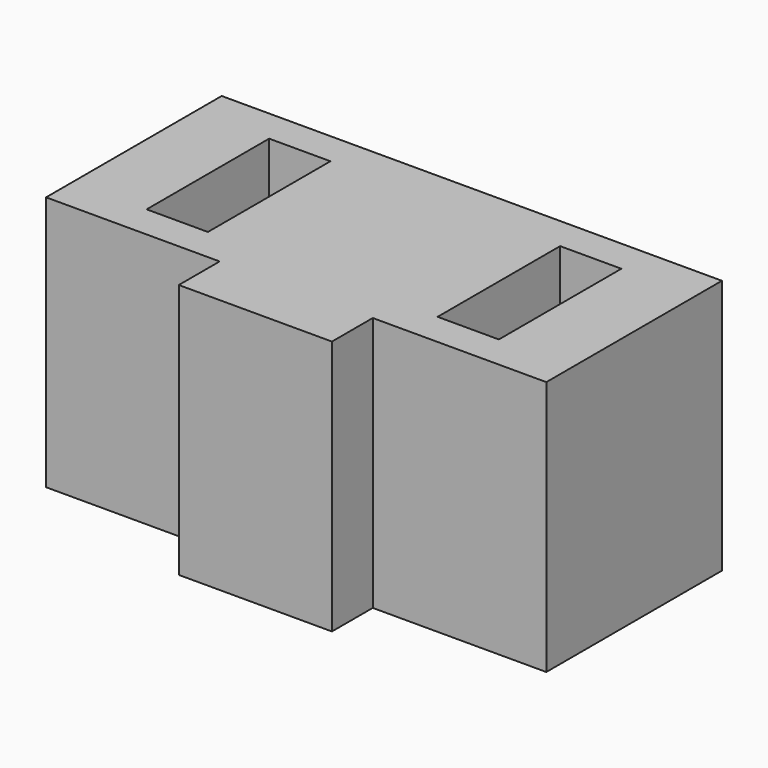
from build123d import *

# Parameters (mm, degrees)
BOX019_W     = 1.2
BOX019_H     = 3
BOX019_DEPTH = 3.4
BOX020_W     = 1.2
BOX020_H     = 3
BOX020_DEPTH = 3.4
BOX018_W     = 9.8
BOX018_H     = 4.3
BOX018_DEPTH = 5
BOX017_W     = 3
BOX017_H     = 1
BOX017_DEPTH = 5


with BuildPart() as obj1:
    # Box019 → Box019 (new body)
    with BuildSketch(Plane(origin=(-3.45, -1.5, 2.45), x_dir=(1, 0, 0), z_dir=(0, 0, 1))):
        with Locations((0.6, 1.5)):
            Rectangle(BOX019_W, BOX019_H)
    extrude(amount=BOX019_DEPTH)


with BuildPart() as obj2:
    # Box020 → Box020 (new body)
    with BuildSketch(Plane(origin=(2.25, -1.5, 2.45), x_dir=(1, 0, 0), z_dir=(0, 0, 1))):
        with Locations((0.6, 1.5)):
            Rectangle(BOX020_W, BOX020_H)
    extrude(amount=BOX020_DEPTH)

    # Fusion002: union obj1
    add(obj1.part)


with BuildPart() as obj3:
    # Box018 → Box018 (new body)
    with BuildSketch(Plane(origin=(-4.9, -2.15, 0.85), x_dir=(1, 0, 0), z_dir=(0, 0, 1))):
        with Locations((4.9, 2.15)):
            Rectangle(BOX018_W, BOX018_H)
    extrude(amount=BOX018_DEPTH)


with BuildPart() as obj4:
    # Box017 → Box017 (new body)
    with BuildSketch(Plane(origin=(-1.5, -3.15, 0.85), x_dir=(1, 0, 0), z_dir=(0, 0, 1))):
        with Locations((1.5, 0.5)):
            Rectangle(BOX017_W, BOX017_H)
    extrude(amount=BOX017_DEPTH)

    # Fusion003: union obj3
    add(obj3.part)

    # Cut002: cut obj2
    add(obj2.part, mode=Mode.SUBTRACT)


solid = obj4.part
